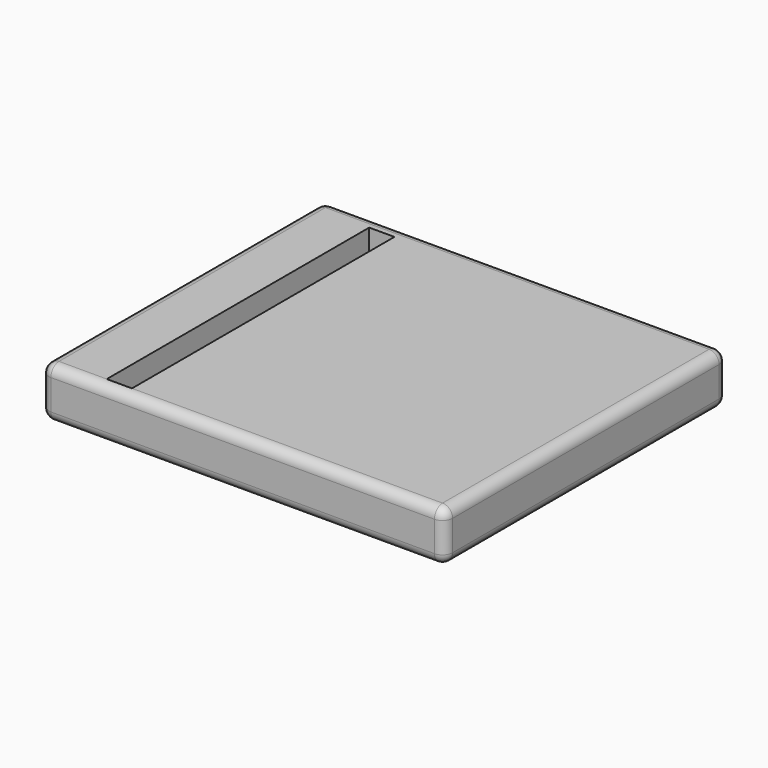
from build123d import *

# Parameters (mm, degrees)
F0_W     = 101.6
F0_H     = 88.9
F0_R     = 6.35
F1_DEPTH = 12.7
F2_R     = 2.54
F3_DEPTH = 12.7
F4_W     = 6.35
F4_H     = 82.55
F5_DEPTH = 6.35


with BuildPart() as f1:
    # F0 (on Top) → F1 (new body)
    with BuildSketch(Plane.XY):
        with Locations((-7.979951, 2.434447)):
            Rectangle(F0_W, F0_H)
        Circle(F0_R, mode=Mode.SUBTRACT)
    extrude(amount=-F1_DEPTH)

    # F2
    f2_edges = [f1.edges().sort_by_distance(p)[0] for p in [
        (-58.779951, 2.434447, 0),
        (-7.979951, -42.015553, 0),
        (-7.979951, 46.884447, 0),
        (42.820049, 2.434447, 0),
        (-7.979951, -42.015553, -12.7),
        (-58.779951, -42.015553, -6.35),
        (42.820049, -42.015553, -6.35),
        (42.820049, 2.434447, -12.7),
        (42.820049, 46.884447, -6.35),
        (-7.979951, 46.884447, -12.7),
        (-58.779951, 46.884447, -6.35),
        (-58.779951, 2.434447, -12.7),
    ]]
    fillet(f2_edges, radius=F2_R)

    # F0 (on Top) → F3 (join)
    with BuildSketch(Plane.XY):
        Circle(F0_R)
    extrude(amount=-F3_DEPTH)

    # F4 (on face) → F5 (cut)
    with BuildSketch(Plane.XY):
        with Locations((-41.041727, 1.799447)):
            Rectangle(F4_W, F4_H)
    extrude(amount=-F5_DEPTH, mode=Mode.SUBTRACT)


solid = f1.part
